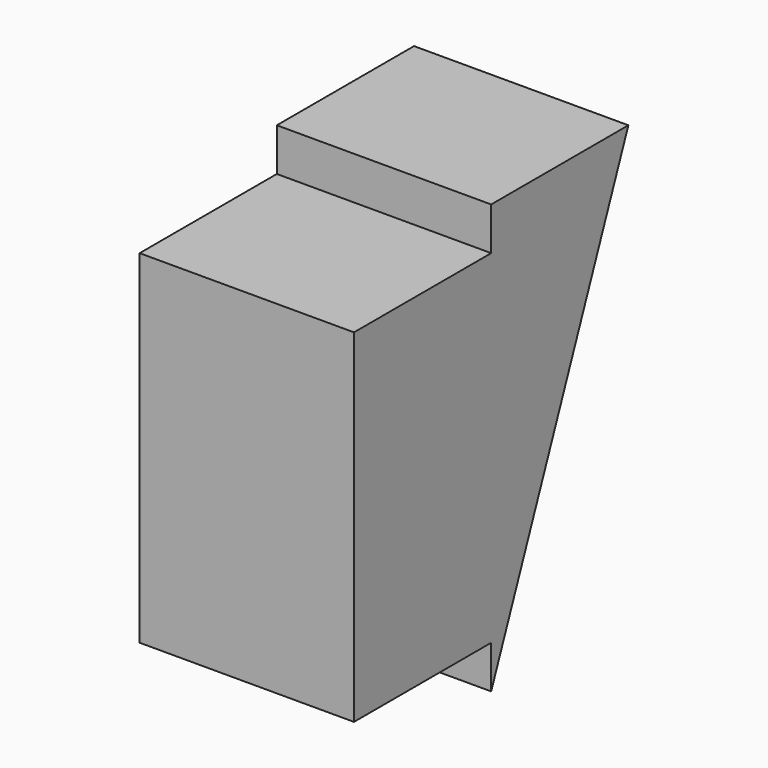
from build123d import *

# Parameters (mm, degrees)
F0_W     = 2
F0_H     = 4
F1_DEPTH = 2.5


with BuildPart() as f1:
    # F0 (on Right) → F1 (new body)
    with BuildSketch(Plane.YZ):
        Rectangle(F0_W, F0_H)
        Polygon((1, 2), (1, -2), (1, -2.5), (3, 2.5), (1, 2.5), align=None)
    extrude(amount=F1_DEPTH)


solid = f1.part
